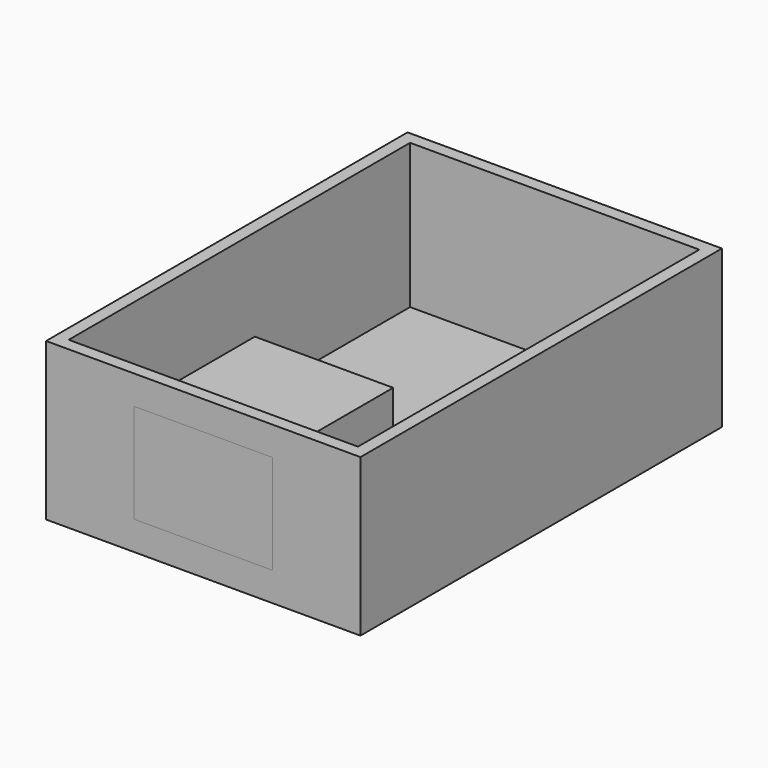
from build123d import *

# Parameters (mm, degrees)
F0_W     = 63.5
F0_H     = 91.259566
F1_DEPTH = 15.875
F2_T     = -2.54
F3_W     = 27.94
F3_H     = 20.066
F4_DEPTH = 6.35
F5_W     = 27.94
F5_H     = 20.066
F6_DEPTH = 30.48


with BuildPart() as f1:
    # F0 (on Top) → F1 (new body, symmetric)
    with BuildSketch(Plane.XY):
        Rectangle(F0_W, F0_H)
    extrude(amount=F1_DEPTH, both=True)

    # F2
    f2_openings = [f1.faces().sort_by_distance(p)[0] for p in [
        (0, 0, 15.875),
    ]]
    offset(amount=F2_T, openings=f2_openings)

    # F3 (on face) → F4 (cut)
    with BuildSketch(Plane.XZ.offset(45.629783)):
        Rectangle(F3_W, F3_H)
    extrude(amount=-F4_DEPTH, mode=Mode.SUBTRACT)


with BuildPart() as f6:
    # F5 (on face) → F6 (new body)
    with BuildSketch(Plane.XZ.offset(45.629783)):
        Rectangle(F5_W, F5_H)
    extrude(amount=-F6_DEPTH)


solid = Compound([f1.part, f6.part])
